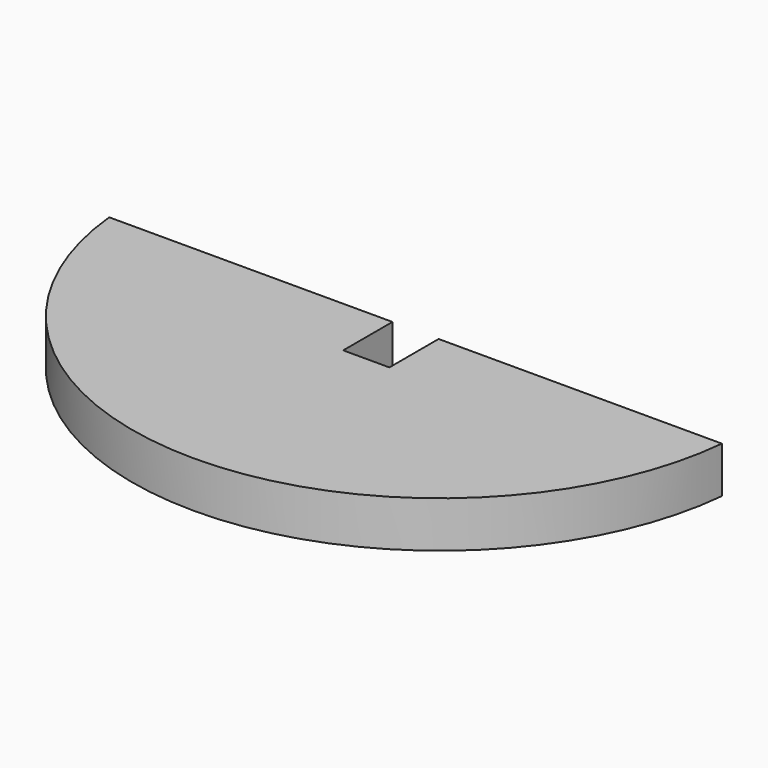
from build123d import *

# Parameters (mm, degrees)
F1_DEPTH = 3


with BuildPart() as f1:
    # F0 (on Top) → F1 (new body)
    with BuildSketch(Plane.XY):
        with BuildLine():
            Line((-1.5, -2), (-19.899749, -2))
            ThreePointArc((-19.899749, -2), (0, -20), (19.899749, -2))
            Line((19.899749, -2), (1.5, -2))
            Line((1.5, -2), (1.5, -6))
            Line((1.5, -6), (-1.5, -6))
            Line((-1.5, -6), (-1.5, -2))
        make_face()
    extrude(amount=F1_DEPTH)


solid = f1.part
